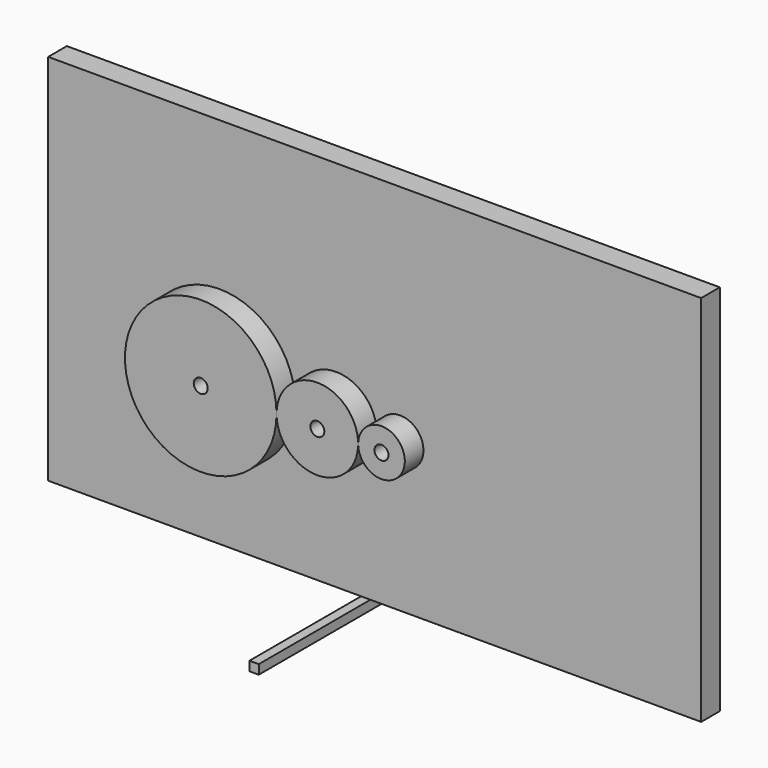
from build123d import *

# Parameters (mm, degrees)
F0_W      = 177.8
F0_H      = 101.6
F2_DEPTH  = 6.35
F1_R      = 20.6375
F3_DEPTH  = 12.7
F7_D      = 3.81
F8_D      = 3.81
F9_D      = 3.81
F11_D     = 3.81
F13_D     = 3.81
F15_D     = 3.81
F16_W     = 76.2
F16_H     = 2.54
F17_DEPTH = 2.54


with BuildPart() as f2:
    # F0 (on Front) → F2 (new body)
    with BuildSketch(Plane.XZ):
        with Locations((11.3818608224, 10.3180078729)):
            Rectangle(F0_W, F0_H)
    extrude(amount=F2_DEPTH)

    # F11 (through all)
    with Locations(Plane.XZ.offset(6.35)):
        with Locations((-30.9327120275, 0)):
            Hole(F11_D / 2)

    # F13 (through all)
    with Locations(Plane.XZ.offset(6.35)):
        with Locations((0.8871365836, 0)):
            Hole(F13_D / 2)

    # F15 (through all)
    with Locations(Plane.XZ.offset(6.35)):
        with Locations((18.2694828434, 0)):
            Hole(F15_D / 2)


with BuildPart() as f3:
    # F1 (on face) → F3 (new body)
    with BuildSketch(Plane.XZ):
        with Locations((-30.8983638078, 0)):
            Circle(F1_R)
    extrude(amount=F3_DEPTH)

    # F7 (through all)
    with Locations(Plane.XZ.offset(12.7)):
        with Locations((-30.8983638078, 0)):
            Hole(F7_D / 2)


with BuildPart() as f3b:
    # F1 (on face) → F3, piece 2 (new body)
    with BuildSketch(Plane.XZ):
        with BuildLine():
            ThreePointArc((24.6641361922, 0), (18.3141361922, 6.35), (11.9641361922, 0))
            ThreePointArc((11.9641361922, 0), (18.3141361922, -6.35), (24.6641361922, 0))
        make_face()
    extrude(amount=F3_DEPTH)

    # F9 (through all)
    with Locations(Plane.XZ.offset(12.7)):
        with Locations((18.3141361922, 0)):
            Hole(F9_D / 2)


with BuildPart() as f3c:
    # F1 (on face) → F3, piece 3 (new body)
    with BuildSketch(Plane.XZ):
        with BuildLine():
            ThreePointArc((11.9641361922, 0), (0.8516361922, 11.1125), (-10.2608638078, 0))
            ThreePointArc((-10.2608638078, 0), (0.8516361922, -11.1125), (11.9641361922, 0))
        make_face()
    extrude(amount=F3_DEPTH)

    # F8 (through all)
    with Locations(Plane.XZ.offset(12.7)):
        with Locations((0.8516361922, 0)):
            Hole(F8_D / 2)


with BuildPart() as f17:
    # F16 (on Right) → F17 (new body)
    with BuildSketch(Plane.YZ):
        with Locations((3.3502218379, -48.1499638951)):
            Rectangle(F16_W, F16_H)
    extrude(amount=F17_DEPTH)


solid = Compound([f2.part, f3.part, f3b.part, f3c.part, f17.part])
